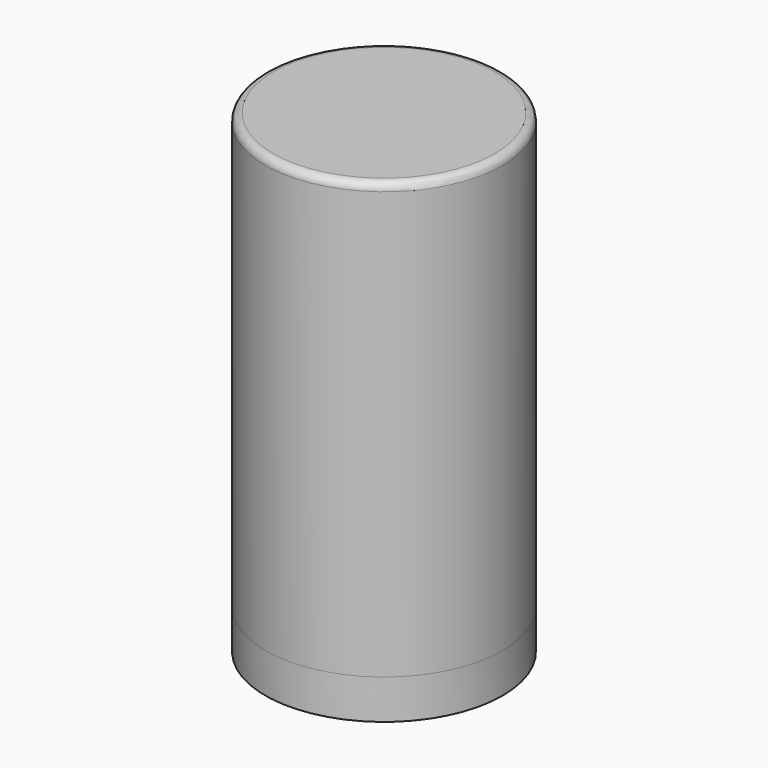
from build123d import *

# Parameters (mm, degrees)
F0_R     = 75
F1_DEPTH = 300
F2_R     = 5
F3_DEPTH = 25


with BuildPart() as f1:
    # F0 (on Top) → F1 (new body)
    with BuildSketch(Plane.XY):
        Circle(F0_R)
    extrude(amount=F1_DEPTH)

    # F2
    f2_edges = [f1.edges().sort_by_distance(p)[0] for p in [
        (-75, 0, 300),
    ]]
    fillet(f2_edges, radius=F2_R)


with BuildPart() as f3:
    # F0 (on Top) → F3 (new body)
    with BuildSketch(Plane.XY):
        Circle(F0_R)
        Circle(F0_R)
    extrude(amount=F3_DEPTH)


solid = Compound([f1.part, f3.part])
